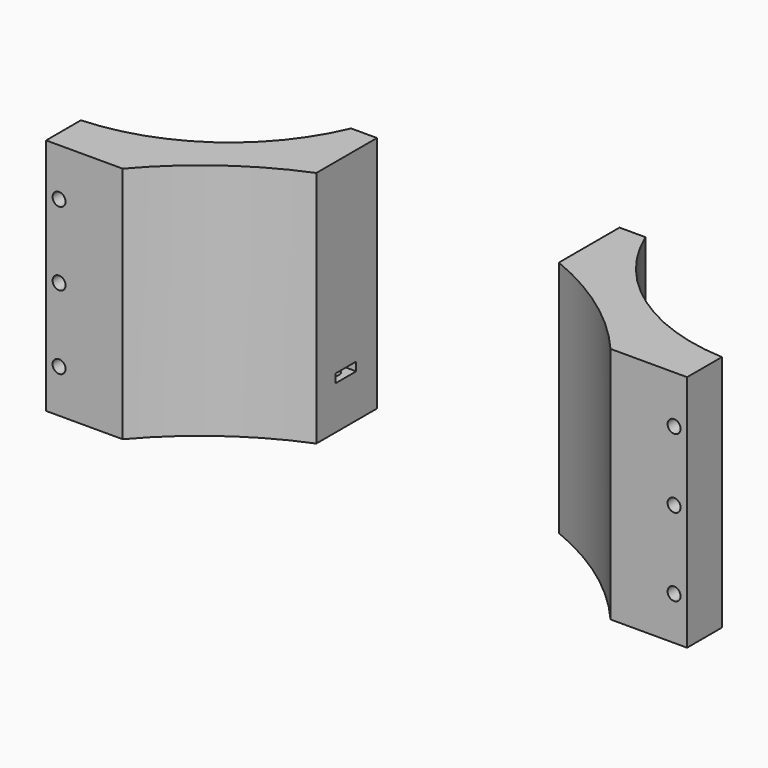
from build123d import *

# Parameters (mm, degrees)
CYLINDER1890_R               = 1.5
CYLINDER1890_DEPTH           = 50
CYLINDER1890_PLACEMENT_ANGLE = 45
CYLINDER1889_R               = 1.5
CYLINDER1889_DEPTH           = 50
CYLINDER1889_PLACEMENT_ANGLE = 45
BOX799_W                     = 6
BOX799_H                     = 12
BOX799_DEPTH                 = 2
BOX798_W                     = 6
BOX798_H                     = 12
BOX798_DEPTH                 = 2
CYLINDER1795_R               = 1.5
CYLINDER1795_DEPTH           = 50
CYLINDER1795_PLACEMENT_ANGLE = 45
CYLINDER1794_R               = 1.5
CYLINDER1794_DEPTH           = 50
CYLINDER1794_PLACEMENT_ANGLE = 45
BOX711_W                     = 6
BOX711_H                     = 8
BOX711_DEPTH                 = 2
BOX729_W                     = 6
BOX729_H                     = 8
BOX729_DEPTH                 = 2
CYLINDER1785_R               = 3
CYLINDER1785_DEPTH           = 50
CYLINDER1781_R               = 3
CYLINDER1781_DEPTH           = 50
CYLINDER1783_R               = 3
CYLINDER1783_DEPTH           = 50
CYLINDER1790_R               = 3
CYLINDER1790_DEPTH           = 50
CYLINDER1791_R               = 3
CYLINDER1791_DEPTH           = 50
CYLINDER1782_R               = 3
CYLINDER1782_DEPTH           = 50
CYLINDER1786_R               = 1.5
CYLINDER1786_DEPTH           = 50
CYLINDER1780_R               = 1.5
CYLINDER1780_DEPTH           = 50
CYLINDER1787_R               = 1.5
CYLINDER1787_DEPTH           = 50
CYLINDER1788_R               = 1.5
CYLINDER1788_DEPTH           = 50
CYLINDER1789_R               = 1.5
CYLINDER1789_DEPTH           = 50
CYLINDER1784_R               = 1.5
CYLINDER1784_DEPTH           = 50
CYLINDER1779_R               = 74
CYLINDER1779_DEPTH           = 55
BOX728_W                     = 56
BOX728_H                     = 200
BOX728_DEPTH                 = 55
CYLINDER1778_R               = 46
CYLINDER1778_DEPTH           = 55
CYLINDER1777_R               = 46
CYLINDER1777_DEPTH           = 55
BOX727_W                     = 148
BOX727_H                     = 38
BOX727_DEPTH                 = 55


with BuildPart() as obj1:
    # Cylinder1890 → Cylinder1890 (new body)
    with BuildSketch(Plane.XY):
        Circle(CYLINDER1890_R)
    extrude(amount=CYLINDER1890_DEPTH)


with BuildPart() as obj1_1:
    # Cylinder1890 placement: moved
    add(obj1.part.moved(Location((-54, 59, 0))).rotate(Axis((-54, 59, 0), (0, 0, 1)), CYLINDER1890_PLACEMENT_ANGLE))


with BuildPart() as compound951:
    # Cylinder1889 → Cylinder1889 (new body)
    with BuildSketch(Plane.XY):
        Circle(CYLINDER1889_R)
    extrude(amount=CYLINDER1889_DEPTH)


with BuildPart() as compound951_1:
    # Cylinder1889 placement: moved
    add(compound951.part.moved(Location((54, 59, 0))).rotate(Axis((54, 59, 0), (0, 0, 1)), CYLINDER1889_PLACEMENT_ANGLE))

    # Compound951: union obj1
    add(obj1_1.part)


with BuildPart() as krychle799:
    # Box799 → Box799 (new body)
    with BuildSketch(Plane(origin=(51, 56, 29), x_dir=(1, 0, 0), z_dir=(0, 0, 1))):
        with Locations((3, 6)):
            Rectangle(BOX799_W, BOX799_H)
    extrude(amount=BOX799_DEPTH)


with BuildPart() as compound952:
    # Box798 → Box798 (new body)
    with BuildSketch(Plane(origin=(-57, 56, 29), x_dir=(1, 0, 0), z_dir=(0, 0, 1))):
        with Locations((3, 6)):
            Rectangle(BOX798_W, BOX798_H)
    extrude(amount=BOX798_DEPTH)

    # Compound952: union Krychle799
    add(krychle799.part)


with BuildPart() as compound952_1:
    # Compound952 placement: moved
    add(compound952.part.moved(Location((0, -1, 10))))


with BuildPart() as obj2:
    # Cylinder1795 → Cylinder1795 (new body)
    with BuildSketch(Plane.XY):
        Circle(CYLINDER1795_R)
    extrude(amount=CYLINDER1795_DEPTH)


with BuildPart() as obj2_1:
    # Cylinder1795 placement: moved
    add(obj2.part.moved(Location((-31, 77, 0))).rotate(Axis((-31, 77, 0), (0, 0, 1)), CYLINDER1795_PLACEMENT_ANGLE))


with BuildPart() as compound902:
    # Cylinder1794 → Cylinder1794 (new body)
    with BuildSketch(Plane.XY):
        Circle(CYLINDER1794_R)
    extrude(amount=CYLINDER1794_DEPTH)


with BuildPart() as compound902_1:
    # Cylinder1794 placement: moved
    add(compound902.part.moved(Location((31, 77, 0))).rotate(Axis((31, 77, 0), (0, 0, 1)), CYLINDER1794_PLACEMENT_ANGLE))

    # Compound902: union obj2
    add(obj2_1.part)


with BuildPart() as krychle711:
    # Box711 → Box711 (new body)
    with BuildSketch(Plane(origin=(-27, 74, 39), x_dir=(0, 1, 0), z_dir=(0, 0, 1))):
        with Locations((3, 4)):
            Rectangle(BOX711_W, BOX711_H)
    extrude(amount=BOX711_DEPTH)


with BuildPart() as compound901:
    # Box729 → Box729 (new body)
    with BuildSketch(Plane(origin=(35, 74, 39), x_dir=(0, 1, 0), z_dir=(0, 0, 1))):
        with Locations((3, 4)):
            Rectangle(BOX729_W, BOX729_H)
    extrude(amount=BOX729_DEPTH)

    # Compound901: union Krychle711
    add(krychle711.part)


with BuildPart() as obj3:
    # Cylinder1785 → Cylinder1785 (new body)
    with BuildSketch(Plane(origin=(71, 106, 39), x_dir=(1, 0, 0), z_dir=(0, -1, 0))):
        Circle(CYLINDER1785_R)
    extrude(amount=CYLINDER1785_DEPTH)


with BuildPart() as obj4:
    # Cylinder1781 → Cylinder1781 (new body)
    with BuildSketch(Plane(origin=(-71, 106, 73), x_dir=(1, 0, 0), z_dir=(0, -1, 0))):
        Circle(CYLINDER1781_R)
    extrude(amount=CYLINDER1781_DEPTH)


with BuildPart() as obj5:
    # Cylinder1783 → Cylinder1783 (new body)
    with BuildSketch(Plane(origin=(71, 106, 73), x_dir=(1, 0, 0), z_dir=(0, -1, 0))):
        Circle(CYLINDER1783_R)
    extrude(amount=CYLINDER1783_DEPTH)


with BuildPart() as obj6:
    # Cylinder1790 → Cylinder1790 (new body)
    with BuildSketch(Plane(origin=(71, 106, 57), x_dir=(1, 0, 0), z_dir=(0, -1, 0))):
        Circle(CYLINDER1790_R)
    extrude(amount=CYLINDER1790_DEPTH)


with BuildPart() as obj7:
    # Cylinder1791 → Cylinder1791 (new body)
    with BuildSketch(Plane(origin=(-71, 106, 56), x_dir=(1, 0, 0), z_dir=(0, -1, 0))):
        Circle(CYLINDER1791_R)
    extrude(amount=CYLINDER1791_DEPTH)


with BuildPart() as compound898:
    # Cylinder1782 → Cylinder1782 (new body)
    with BuildSketch(Plane(origin=(-71, 106, 39), x_dir=(1, 0, 0), z_dir=(0, -1, 0))):
        Circle(CYLINDER1782_R)
    extrude(amount=CYLINDER1782_DEPTH)

    # Compound898: union obj3, obj4, obj5, obj6, obj7
    add(obj3.part)
    add(obj4.part)
    add(obj5.part)
    add(obj6.part)
    add(obj7.part)


with BuildPart() as obj8:
    # Cylinder1786 → Cylinder1786 (new body)
    with BuildSketch(Plane(origin=(71, 80, 39), x_dir=(1, 0, 0), z_dir=(0, -1, 0))):
        Circle(CYLINDER1786_R)
    extrude(amount=CYLINDER1786_DEPTH)


with BuildPart() as obj9:
    # Cylinder1780 → Cylinder1780 (new body)
    with BuildSketch(Plane(origin=(-71, 80, 73), x_dir=(1, 0, 0), z_dir=(0, -1, 0))):
        Circle(CYLINDER1780_R)
    extrude(amount=CYLINDER1780_DEPTH)


with BuildPart() as obj10:
    # Cylinder1787 → Cylinder1787 (new body)
    with BuildSketch(Plane(origin=(71, 80, 73), x_dir=(1, 0, 0), z_dir=(0, -1, 0))):
        Circle(CYLINDER1787_R)
    extrude(amount=CYLINDER1787_DEPTH)


with BuildPart() as obj11:
    # Cylinder1788 → Cylinder1788 (new body)
    with BuildSketch(Plane(origin=(-71, 80, 56), x_dir=(1, 0, 0), z_dir=(0, -1, 0))):
        Circle(CYLINDER1788_R)
    extrude(amount=CYLINDER1788_DEPTH)


with BuildPart() as obj12:
    # Cylinder1789 → Cylinder1789 (new body)
    with BuildSketch(Plane(origin=(71, 80, 57), x_dir=(1, 0, 0), z_dir=(0, -1, 0))):
        Circle(CYLINDER1789_R)
    extrude(amount=CYLINDER1789_DEPTH)


with BuildPart() as compound899:
    # Cylinder1784 → Cylinder1784 (new body)
    with BuildSketch(Plane(origin=(-71, 80, 39), x_dir=(1, 0, 0), z_dir=(0, -1, 0))):
        Circle(CYLINDER1784_R)
    extrude(amount=CYLINDER1784_DEPTH)

    # Compound899: union obj8, obj9, obj10, obj11, obj12
    add(obj8.part)
    add(obj9.part)
    add(obj10.part)
    add(obj11.part)
    add(obj12.part)


with BuildPart() as obj13:
    # Cylinder1779 → Cylinder1779 (new body)
    with BuildSketch(Plane.XY.offset(29)):
        Circle(CYLINDER1779_R)
    extrude(amount=CYLINDER1779_DEPTH)


with BuildPart() as krychle728:
    # Box728 → Box728 (new body)
    with BuildSketch(Plane(origin=(-28, 0, 29), x_dir=(1, 0, 0), z_dir=(0, 0, 1))):
        with Locations((28, 100)):
            Rectangle(BOX728_W, BOX728_H)
    extrude(amount=BOX728_DEPTH)


with BuildPart() as obj14:
    # Cylinder1778 → Cylinder1778 (new body)
    with BuildSketch(Plane(origin=(76.3, 104, 29), x_dir=(1, 0, 0), z_dir=(0, 0, 1))):
        Circle(CYLINDER1778_R)
    extrude(amount=CYLINDER1778_DEPTH)


with BuildPart() as obj15:
    # Cylinder1777 → Cylinder1777 (new body)
    with BuildSketch(Plane(origin=(-76.3, 104, 29), x_dir=(1, 0, 0), z_dir=(0, 0, 1))):
        Circle(CYLINDER1777_R)
    extrude(amount=CYLINDER1777_DEPTH)


with BuildPart() as cut600:
    # Box727 → Box727 (new body)
    with BuildSketch(Plane(origin=(-74, 48, 29), x_dir=(1, 0, 0), z_dir=(0, 0, 1))):
        with Locations((74, 19)):
            Rectangle(BOX727_W, BOX727_H)
    extrude(amount=BOX727_DEPTH)

    # Cut536: cut obj15
    add(obj15.part, mode=Mode.SUBTRACT)

    # Cut531: cut obj14
    add(obj14.part, mode=Mode.SUBTRACT)

    # Cut534: cut Krychle728
    add(krychle728.part, mode=Mode.SUBTRACT)

    # Cut535: cut obj13
    add(obj13.part, mode=Mode.SUBTRACT)

    # Cut532: cut Compound899
    add(compound899.part, mode=Mode.SUBTRACT)

    # Cut533: cut Compound898
    add(compound898.part, mode=Mode.SUBTRACT)

    # Cut538: cut Compound901
    add(compound901.part, mode=Mode.SUBTRACT)

    # Cut539: cut Compound902
    add(compound902_1.part, mode=Mode.SUBTRACT)

    # Cut599: cut Compound952
    add(compound952_1.part, mode=Mode.SUBTRACT)

    # Cut600: cut Compound951
    add(compound951_1.part, mode=Mode.SUBTRACT)


solid = cut600.part
